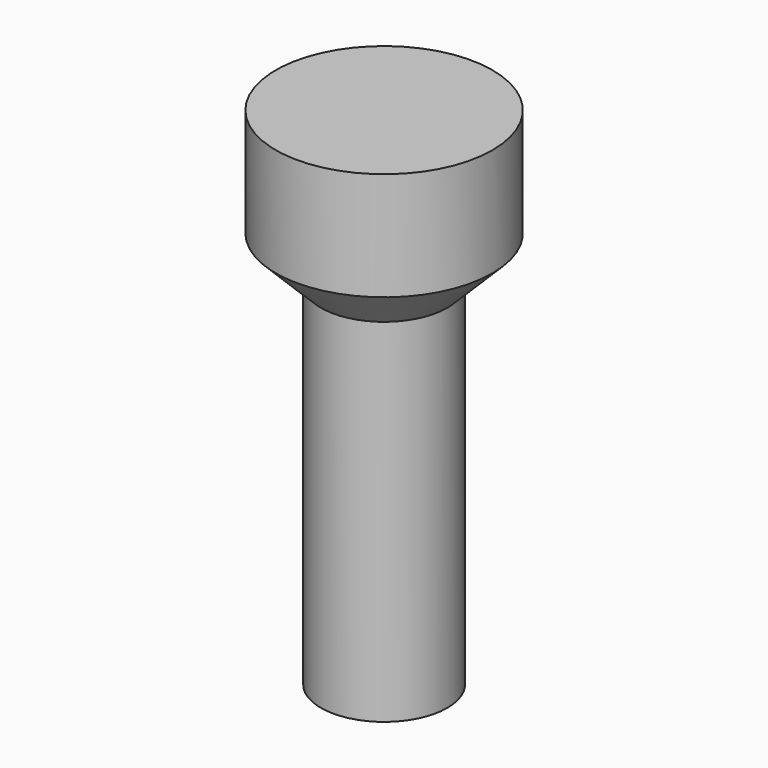
from build123d import *

# Parameters (mm, degrees)
CYLINDER002_R     = 1.75
CYLINDER002_DEPTH = 10
CYLINDER003_R     = 3
CYLINDER003_DEPTH = 3


with BuildPart() as cone:
    # Cone → Cone (revolve)
    with BuildSketch(Plane(origin=(0, 0, 9), x_dir=(1, 0, 0), z_dir=(0, -1, 0))):
        Polygon((0, 0), (1, 0), (3, 2), (0, 2), align=None)
    revolve(axis=Axis((0, 0, 9), (0, 0, 1)))


with BuildPart() as cylinder002:
    # Cylinder002 → Cylinder002 (new body)
    with BuildSketch(Plane.XY):
        Circle(CYLINDER002_R)
    extrude(amount=CYLINDER002_DEPTH)


with BuildPart() as fusion002:
    # Cylinder003 → Cylinder003 (new body)
    with BuildSketch(Plane.XY.offset(11)):
        Circle(CYLINDER003_R)
    extrude(amount=CYLINDER003_DEPTH)

    # Fusion002: union Cone, Cylinder002
    add(cone.part)
    add(cylinder002.part)


solid = fusion002.part
